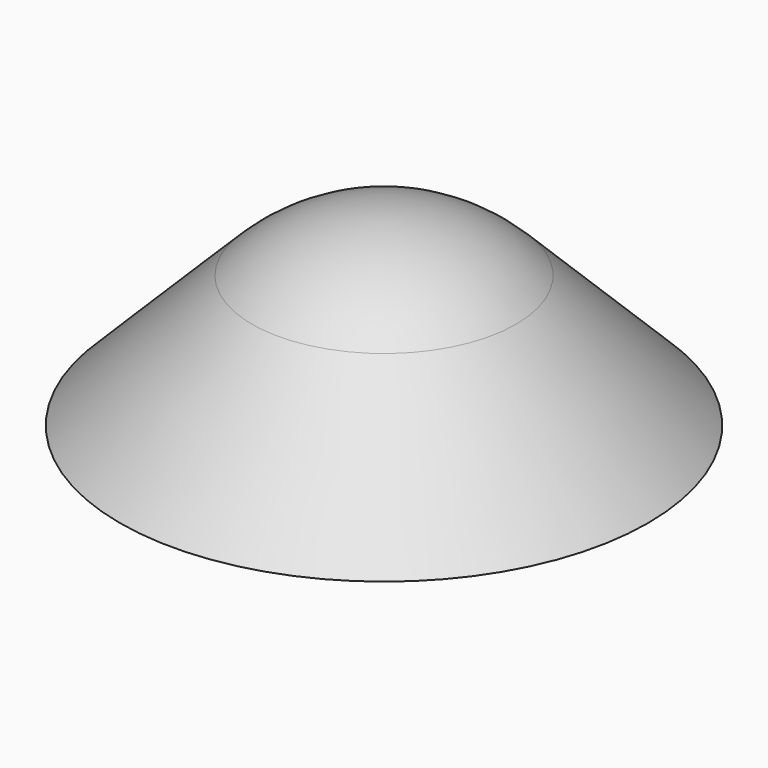
from build123d import *

# Parameters (mm, degrees)
F2_SCALE = 0.9


with BuildPart() as f1:
    # F0 (on Front) → F1 (revolve)
    with BuildSketch(Plane.XZ):
        with BuildLine():
            Line((0, 0), (0.6, 0))
            ThreePointArc((0.6, 0), (0.5543277195, 0.2296100594), (0.4242640687, 0.4242640687))
            ThreePointArc((0.4242640687, 0.4242640687), (0.2296100594, 0.5543277195), (0, 0.6))
            Line((0, 0.6), (0, 0))
        make_face()
        with BuildLine():
            ThreePointArc((0.4242640687, 0.4242640687), (0.5543277195, 0.2296100594), (0.6, 0))
            Line((0.6, 0), (0.8485281374, 0))
            Line((0.8485281374, 0), (0.4242640687, 0.4242640687))
        make_face()
    revolve(axis=Axis((0, 0, 0.3), (0, 0, 1)))


with BuildPart() as f2_1:
    # F2: copy of F1
    add(f1.part.scale(F2_SCALE).moved(Location((0, 0, 0))))


solid = Compound([f1.part, f2_1.part])
